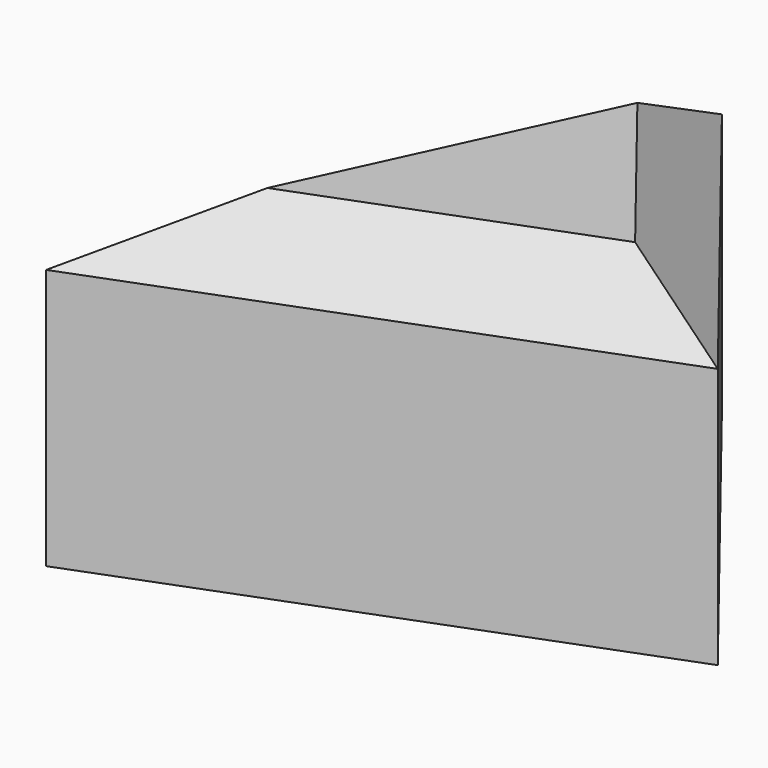
from build123d import *

# Parameters (mm, degrees)
F2_DEPTH = 25.4
F3_SIZE  = 5.08


with BuildPart() as f2:
    # F1 (on face) → F2 (new body)
    with BuildSketch(Plane.XY):
        Polygon((15.33778, 23.638219), (55.396467, 38.976014), (34.645349, 65.320902), align=None)
    extrude(amount=F2_DEPTH)

    # F3
    f3_edges = [f2.edges().sort_by_distance(p)[0] for p in [
        (45.020908, 52.148458, 25.4),
        (24.991564, 44.47956, 25.4),
        (35.367124, 31.307116, 25.4),
    ]]
    chamfer(f3_edges, length=F3_SIZE)


solid = f2.part
